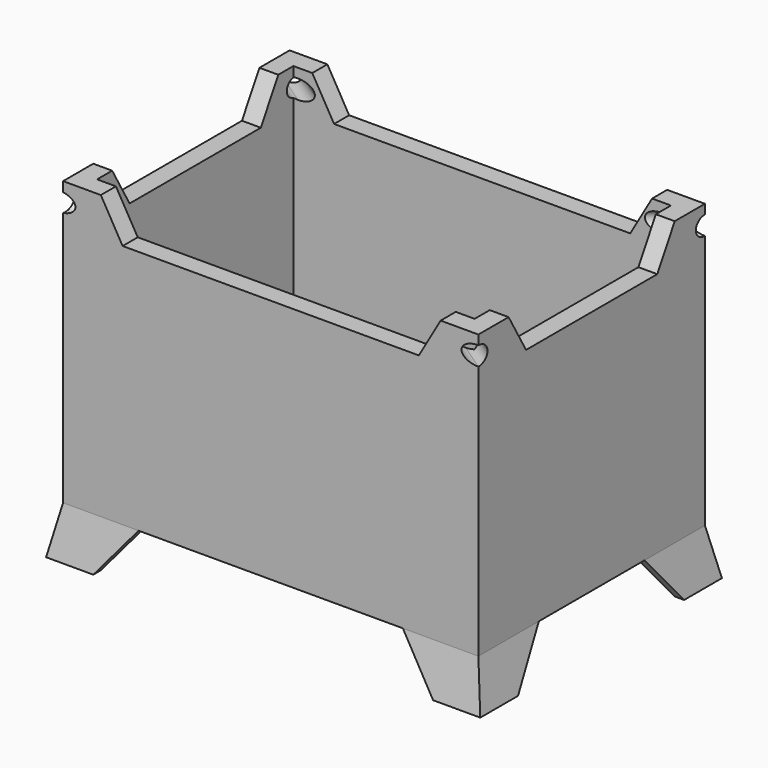
from build123d import *

# Parameters (mm, degrees)
F0_W      = 22
F0_H      = 15
F1_DEPTH  = 18
F2_T      = -1
F11_DEPTH = 25
F13_DEPTH = 25
F16_R     = 0.5
F17_DEPTH = 50
F20_DEPTH = 50


with BuildPart() as f1:
    # F0 (on Top) → F1 (new body)
    with BuildSketch(Plane.XY):
        with Locations((11, 7.5)):
            Rectangle(F0_W, F0_H)
    extrude(amount=F1_DEPTH)

    # F2
    f2_openings = [f1.faces().sort_by_distance(p)[0] for p in [
        (11, 7.5, 18),
    ]]
    offset(amount=F2_T, openings=f2_openings)

    # F5 (on offset) → F6 section 0
    with BuildSketch(Plane.XY.offset(-2.5)):
        Polygon((-0.5, 2), (-0.5, -0.5), (2, -0.5), (2, 0), (0, 0), (0, 2), align=None)
    # F3 (on face) → F6 section 1
    with BuildSketch(Plane(origin=(0, 0, 0), x_dir=(1, 0, 0), z_dir=(0, 0, -1))):
        Polygon((4, 0), (0, 0), (0, -4), (0.5, -4), (0.5, -0.5), (4, -0.5), align=None)
    loft()

    # F3 (on face) → F7 section 0
    with BuildSketch(Plane(origin=(0, 0, 0), x_dir=(1, 0, 0), z_dir=(0, 0, -1))):
        Polygon((0.5, -11), (0, -11), (0, -15), (4, -15), (4, -14.5), (0.5, -14.5), align=None)
    # F5 (on offset) → F7 section 1
    with BuildSketch(Plane.XY.offset(-2.5)):
        Polygon((-0.5, 13), (0, 13), (0, 15), (2, 15), (2, 15.5), (-0.5, 15.5), align=None)
    loft()

    # F3 (on face) → F8 section 0
    with BuildSketch(Plane(origin=(0, 0, 0), x_dir=(1, 0, 0), z_dir=(0, 0, -1))):
        Polygon((22, -15), (22, -11), (21.5, -11), (21.5, -14.5), (18, -14.5), (18, -15), align=None)
    # F5 (on offset) → F8 section 1
    with BuildSketch(Plane.XY.offset(-2.5)):
        Polygon((20, 15.5), (20, 15), (22, 15), (22, 13), (22.5, 13), (22.5, 15.5), align=None)
    loft()

    # F3 (on face) → F9 section 0
    with BuildSketch(Plane(origin=(0, 0, 0), x_dir=(1, 0, 0), z_dir=(0, 0, -1))):
        Polygon((22, 0), (18, 0), (18, -0.5), (21.5, -0.5), (21.5, -4), (22, -4), align=None)
    # F5 (on offset) → F9 section 1
    with BuildSketch(Plane.XY.offset(-2.5)):
        Polygon((22, 2), (22, 0), (20, 0), (20, -0.5), (22.5, -0.5), (22.5, 2), align=None)
    loft()

    # F10 (on face) → F11 (cut)
    with BuildSketch(Plane.XZ):
        Polygon((20, 15), (22, 15), (22, 18), (0, 18), (0, 15), (2, 15), (3.1547005384, 13), (18.8452994616, 13), align=None)
    extrude(amount=-F11_DEPTH, mode=Mode.SUBTRACT)

    # F12 (on face) → F13 (cut)
    with BuildSketch(Plane.YZ.offset(22)):
        Polygon((13, 15), (2, 15), (3.1547005384, 13), (11.8452994616, 13), align=None)
    extrude(amount=-F13_DEPTH, mode=Mode.SUBTRACT)

    # F16 (on face) → F17 (cut)
    with BuildSketch(Plane(origin=(22.0745514368, 14.8894729496, 0), x_dir=(-0.5591929035, 0.8290375726, 0), z_dir=(0.8290375726, 0.5591929035, 0))):
        with Locations((0.133319712, 14)):
            Circle(F16_R)
    extrude(amount=-F17_DEPTH, mode=Mode.SUBTRACT)

    # F19 (on face) → F20 (cut)
    with BuildSketch(Plane(origin=(15.1206725276, -10.1990224002, 0), x_dir=(0.5591929035, 0.8290375726, 0), z_dir=(0.8290375726, -0.5591929035, 0))):
        with BuildLine():
            ThreePointArc((12.8022438764, 14), (12.6557972669, 14.3535533906), (12.3022438764, 14.5))
            Line((12.3022438764, 14.5), (12.3022438764, 13.5))
            ThreePointArc((12.3022438764, 13.5), (12.6557972669, 13.6464466094), (12.8022438764, 14))
        make_face()
        with BuildLine():
            Line((12.3022438764, 13.5), (12.3022438764, 14.5))
            ThreePointArc((12.3022438764, 14.5), (11.8022438764, 14), (12.3022438764, 13.5))
        make_face()
    extrude(amount=-F20_DEPTH, mode=Mode.SUBTRACT)


solid = f1.part
